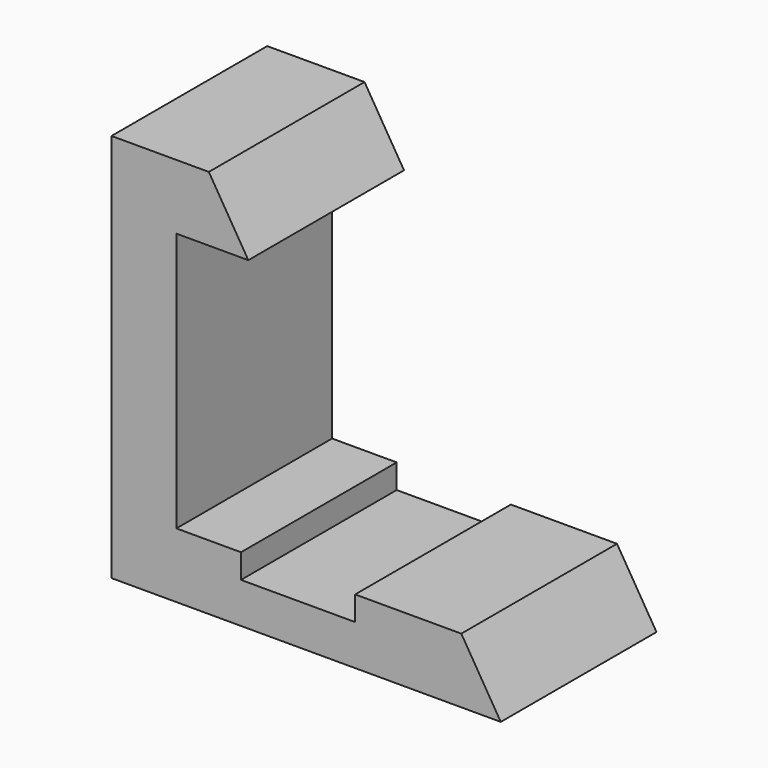
from build123d import *

# Parameters (mm, degrees)
F1_DEPTH = 30
F2_W     = 17.595695
F2_H     = 3.750944
F3_DEPTH = 30.001


with BuildPart() as f1:
    # F0 (on Front) → F1 (new body)
    with BuildSketch(Plane.XZ):
        Polygon((-53.50159, -18.418293), (-68.50159, -18.418293), (-68.50159, -78.418293), (-8.50159, -78.418293), (-14.586498, -68.418293), (-58.502034, -68.418293), (-58.502034, -40.482688), (-58.502034, -28.418293), (-47.416681, -28.418293), align=None)
    extrude(amount=F1_DEPTH)

    # F2 (on face) → F3 (cut, through all)
    with BuildSketch(Plane.XZ.offset(30)):
        with Locations((-39.748831, -70.293765)):
            Rectangle(F2_W, F2_H)
    extrude(amount=-F3_DEPTH, mode=Mode.SUBTRACT)


solid = f1.part
